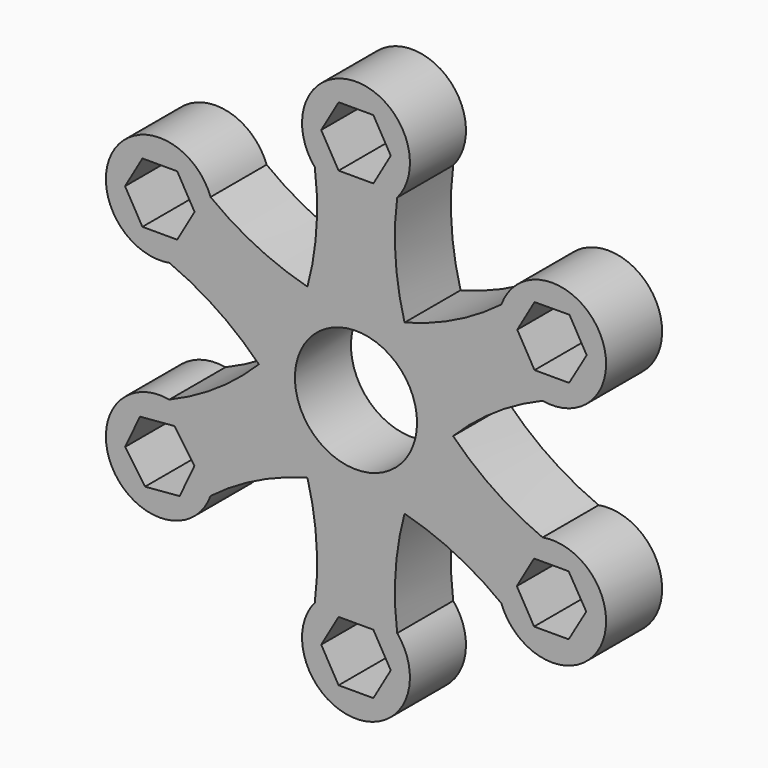
from build123d import *

# Parameters (mm, degrees)
F0_R     = 10.9
F1_DEPTH = 6.25


with BuildPart() as f1:
    # F0 (on Front) → F1 (new body, symmetric)
    with BuildSketch(Plane.XZ):
        with BuildLine():
            ThreePointArc((8.666061, 15.010058), (7.055697, 24.549161), (7.352997, 34.218668))
            ThreePointArc((7.352997, 34.218668), (0, 50.060256), (-7.352997, 34.218668))
            ThreePointArc((-7.352997, 34.218668), (-7.055697, 24.549161), (-8.666061, 15.010058))
            ThreePointArc((-8.666061, 15.010058), (-17.732348, 18.384994), (-25.957738, 23.477216))
            ThreePointArc((-25.957738, 23.477216), (-43.353453, 25.030128), (-33.310735, 10.741452))
            ThreePointArc((-33.310735, 10.741452), (-24.788046, 6.164167), (-17.332122, 0))
            ThreePointArc((-17.332122, 0), (-24.788046, -6.164167), (-33.310735, -10.741452))
            ThreePointArc((-33.310735, -10.741452), (-43.353453, -25.030128), (-25.957738, -23.477216))
            ThreePointArc((-25.957738, -23.477216), (-17.732348, -18.384994), (-8.666061, -15.010058))
            ThreePointArc((-8.666061, -15.010058), (-7.055697, -24.549161), (-7.352997, -34.218668))
            ThreePointArc((-7.352997, -34.218668), (0, -50.060256), (7.352997, -34.218668))
            ThreePointArc((7.352997, -34.218668), (7.055697, -24.549161), (8.666061, -15.010058))
            ThreePointArc((8.666061, -15.010058), (17.732348, -18.384994), (25.957738, -23.477216))
            ThreePointArc((25.957738, -23.477216), (43.353453, -25.030128), (33.310735, -10.741452))
            ThreePointArc((33.310735, -10.741452), (24.788046, -6.164167), (17.332122, 0))
            ThreePointArc((17.332122, 0), (24.788046, 6.164167), (33.310735, 10.741452))
            ThreePointArc((33.310735, 10.741452), (43.353453, 25.030128), (25.957738, 23.477216))
            ThreePointArc((25.957738, 23.477216), (17.732348, 18.384994), (8.666061, 15.010058))
        make_face()
        Polygon((-6.206515, -40.432987), (-3.103258, -35.057987), (3.103258, -35.057987), (6.206515, -40.432987), (3.103258, -45.807987), (-3.103258, -45.807987), align=None, mode=Mode.SUBTRACT)
        Polygon((-38.56319, -15.123534), (-32.378959, -14.598052), (-28.831763, -19.691011), (-31.468798, -25.309453), (-37.653028, -25.834935), (-41.200224, -20.741976), align=None, mode=Mode.SUBTRACT)
        Polygon((28.702569, -19.887737), (31.788997, -14.541886), (37.961854, -14.541886), (41.09877, -19.858587), (37.961854, -25.233587), (31.788997, -25.233587), align=None, mode=Mode.SUBTRACT)
        Polygon((-41.222509, 20.216493), (-38.119251, 25.591493), (-31.912736, 25.591493), (-28.809478, 20.216493), (-31.912736, 14.841493), (-38.119251, 14.841493), align=None, mode=Mode.SUBTRACT)
        Circle(F0_R, mode=Mode.SUBTRACT)
        Polygon((28.782708, 20.43389), (31.869136, 25.77974), (38.092481, 25.80889), (41.178909, 20.463039), (38.041992, 15.088039), (31.869136, 15.088039), align=None, mode=Mode.SUBTRACT)
        Polygon((-6.206515, 40.432987), (-3.103258, 45.807987), (3.103258, 45.807987), (6.206515, 40.432987), (3.103258, 35.057987), (-3.103258, 35.057987), align=None, mode=Mode.SUBTRACT)
    extrude(amount=F1_DEPTH, both=True)


solid = f1.part
